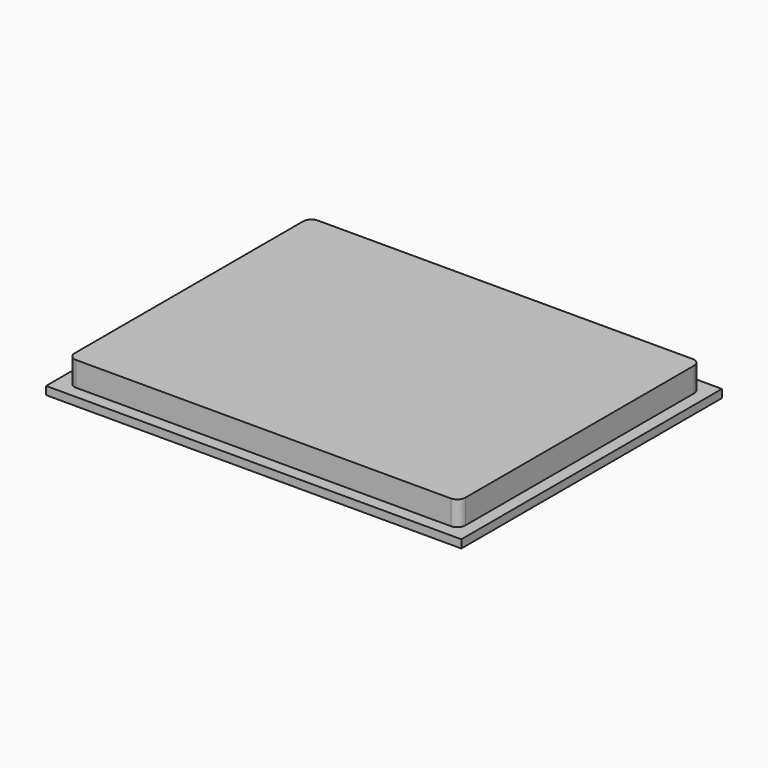
from build123d import *

# Parameters (mm, degrees)
SKETCH_W     = 51
SKETCH_H     = 40
PAD_DEPTH    = 1
PAD001_DEPTH = 3


with BuildPart() as part:
    # Sketch → Pad (new body)
    with BuildSketch(Plane.XY):
        with Locations((-25.5, 20)):
            Rectangle(SKETCH_W, SKETCH_H)
    extrude(amount=PAD_DEPTH)

    # Sketch001 (on DatumPlane) → Pad001 (join)
    with BuildSketch(Plane.XY.offset(1)):
        with BuildLine():
            Line((-48.5, 38.6), (-2.5, 38.6))
            ThreePointArc((-1.5, 37.6), (-1.792893, 38.307107), (-2.5, 38.6))
            Line((-1.5, 37.6), (-1.5, 2.5))
            ThreePointArc((-2.5, 1.5), (-1.792893, 1.792893), (-1.5, 2.5))
            Line((-2.5, 1.5), (-48.5, 1.5))
            ThreePointArc((-49.5, 2.5), (-49.207107, 1.792893), (-48.5, 1.5))
            Line((-49.5, 2.5), (-49.5, 37.6))
            ThreePointArc((-48.5, 38.6), (-49.207107, 38.307107), (-49.5, 37.6))
        make_face()
    extrude(amount=PAD001_DEPTH)


with BuildPart() as part_1:
    # Body placement: moved
    add(part.part.moved(Location((0, 0, -4))))


solid = part_1.part
